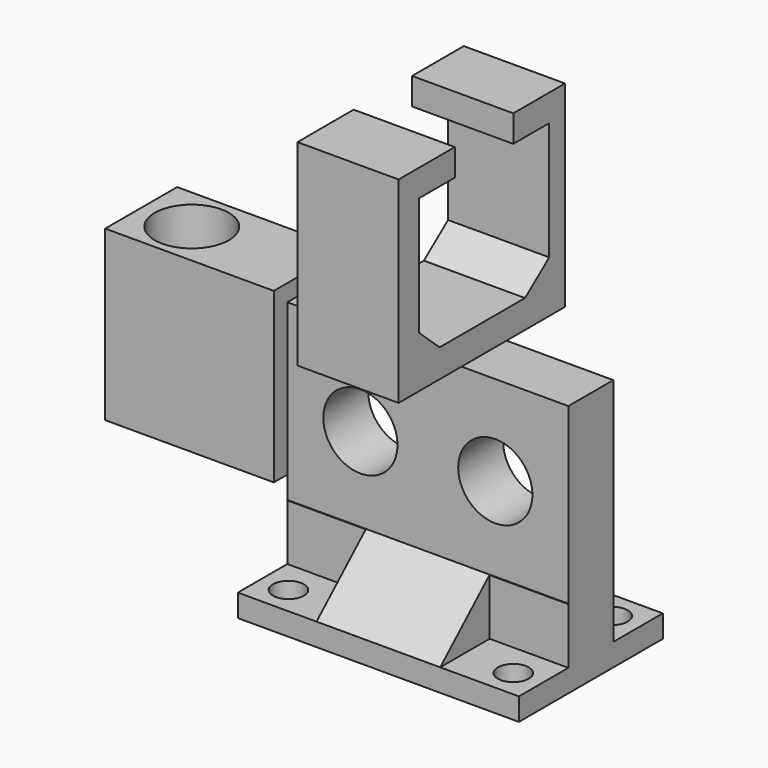
from build123d import *

# Parameters (mm, degrees)
PAD005_DEPTH  = 50
PAD006_DEPTH  = 50
SKETCH013_R   = 6.6
PAD011_DEPTH  = 30
SKETCH014_R   = 6.6
PAD012_DEPTH  = 35
SKETCH009_W   = 11
SKETCH009_H   = 10
PAD007_DEPTH  = 14
SKETCH010_W   = 11
SKETCH010_H   = 10
PAD008_DEPTH  = 14
SKETCH011_W   = 11
SKETCH011_H   = 10
PAD009_DEPTH  = 14
SKETCH012_W   = 11
SKETCH012_H   = 10
PAD010_DEPTH  = 14
SKETCH001_W   = 32
SKETCH001_H   = 4
PAD001_DEPTH  = 50
SKETCH004_R   = 2.75
HOLE_DEPTH    = 4.001
PAD003_DEPTH  = 20
SKETCH002_W   = 37
SKETCH002_H   = 18
PAD002_DEPTH  = 35
SKETCH005_W   = 16
SKETCH005_H   = 30
PAD004_DEPTH  = 30
SKETCH006_R   = 6.6
HOLE001_DEPTH = 30.001
SKETCH_W      = 32
SKETCH_H      = 41
PAD_DEPTH     = 50


with BuildPart() as body005:
    # Sketch007 (on Face1 of CopyPad004) → Pad005 (new body)
    with BuildSketch(Plane(origin=(0, 0, 0), x_dir=(0, -1, 0), z_dir=(-1, 0, 0))):
        Polygon((0, 3), (-11, 13.048009), (-11, 44), (0, 44), align=None)
    extrude(amount=-PAD005_DEPTH)


with BuildPart() as body006:
    # Sketch008 (on Face1 of CopyPad005) → Pad006 (new body)
    with BuildSketch(Plane(origin=(0, 0, 0), x_dir=(0, -1, 0), z_dir=(-1, 0, 0))):
        Polygon((-32, 44), (-21, 44), (-21, 12.966247), (-32, 3), align=None)
    extrude(amount=-PAD006_DEPTH)


with BuildPart() as body011:
    # Sketch013 (on Face1 of CopyPad006001) → Pad011 (new body)
    with BuildSketch(Plane(origin=(0, 32, 0), x_dir=(-1, 0, 0), z_dir=(0, 1, 0))):
        with Locations((-37, 28)):
            Circle(SKETCH013_R)
    extrude(amount=-PAD011_DEPTH)


with BuildPart() as body012:
    # Sketch014 (on Face1 of CopyPad006002) → Pad012 (new body)
    with BuildSketch(Plane(origin=(0, 32, 0), x_dir=(-1, 0, 0), z_dir=(0, 1, 0))):
        with Locations((-13, 28)):
            Circle(SKETCH014_R)
    extrude(amount=-PAD012_DEPTH)


with BuildPart() as body007:
    # Sketch009 (on Face1 of CopyPad006) → Pad007 (new body)
    with BuildSketch(Plane.YZ.offset(50)):
        with Locations((26.5, 8)):
            Rectangle(SKETCH009_W, SKETCH009_H)
    extrude(amount=-PAD007_DEPTH)


with BuildPart() as body008:
    # Sketch010 (on Face1 of CopyPad005001) → Pad008 (new body)
    with BuildSketch(Plane.YZ.offset(50)):
        with Locations((5.5, 8)):
            Rectangle(SKETCH010_W, SKETCH010_H)
    extrude(amount=-PAD008_DEPTH)


with BuildPart() as body009:
    # Sketch011 (on Face1 of CopyPad005002) → Pad009 (new body)
    with BuildSketch(Plane(origin=(0, 0, 0), x_dir=(0, -1, 0), z_dir=(-1, 0, 0))):
        with Locations((-5.5, 8)):
            Rectangle(SKETCH011_W, SKETCH011_H)
    extrude(amount=-PAD009_DEPTH)


with BuildPart() as body010:
    # Sketch012 (on Face1 of CopyPad005003) → Pad010 (new body)
    with BuildSketch(Plane(origin=(0, 0, 0), x_dir=(0, -1, 0), z_dir=(-1, 0, 0))):
        with Locations((-26.5, 8)):
            Rectangle(SKETCH012_W, SKETCH012_H)
    extrude(amount=-PAD010_DEPTH)


with BuildPart() as body001:
    # Sketch001 (on Face1 of CopyPad) → Pad001 (new body)
    with BuildSketch(Plane.YZ.offset(50)):
        with Locations((16, 1)):
            Rectangle(SKETCH001_W, SKETCH001_H)
    extrude(amount=-PAD001_DEPTH)

    # Sketch004 (on Face3 of Pad001) → Hole (cut, through all)
    with BuildSketch(Plane(origin=(50, 0, -1), x_dir=(1, 0, 0), z_dir=(0, 0, -1))):
        with Locations((-45, -5)):
            Circle(SKETCH004_R)
        with Locations((-5, -5)):
            Circle(SKETCH004_R)
        with Locations((-5, -27)):
            Circle(SKETCH004_R)
        with Locations((-45, -27)):
            Circle(SKETCH004_R)
    extrude(amount=-HOLE_DEPTH, mode=Mode.SUBTRACT)


with BuildPart() as body003:
    # Sketch003 (on Face1 of CopyPad002) → Pad003 (new body)
    with BuildSketch(Plane.YZ.offset(31)):
        Polygon((9.5, 79.211134), (22.5, 79.211134), (22.5, 74.211134), (30.5, 74.211134), (30.5, 53.183285), (25.112084, 49.00605), (6.112084, 49.00605), (1.5, 53.183285), (1.5, 74.211134), (9.5, 74.211134), align=None)
    extrude(amount=-PAD003_DEPTH)


with BuildPart() as body002:
    # Sketch002 (on Face1 of CopyPad001) → Pad002 (new body)
    with BuildSketch(Plane(origin=(0, 0, 44), x_dir=(0, -1, 0), z_dir=(0, 0, 1))):
        with Locations((-15.5, 22)):
            Rectangle(SKETCH002_W, SKETCH002_H)
    extrude(amount=PAD002_DEPTH)

    # Boolean: cut Body003
    add(body003.part, mode=Mode.SUBTRACT)


with BuildPart() as body004:
    # Sketch005 (on Face1 of CopyPad003) → Pad004 (new body)
    with BuildSketch(Plane(origin=(0, 0, 0), x_dir=(0, -1, 0), z_dir=(-1, 0, 0))):
        with Locations((-16, 32)):
            Rectangle(SKETCH005_W, SKETCH005_H)
    extrude(amount=PAD004_DEPTH)

    # Sketch006 (on Face3 of Pad004) → Hole001 (cut, through all)
    with BuildSketch(Plane(origin=(0, 0, 17), x_dir=(1, 0, 0), z_dir=(0, 0, -1))):
        with Locations((-21, -16)):
            Circle(SKETCH006_R)
    extrude(amount=-HOLE001_DEPTH, mode=Mode.SUBTRACT)


with BuildPart() as body:
    # Sketch → Pad (new body)
    with BuildSketch(Plane.YZ):
        with Locations((16, 23.5)):
            Rectangle(SKETCH_W, SKETCH_H)
    extrude(amount=PAD_DEPTH)

    # Boolean001: cut Body005
    add(body005.part, mode=Mode.SUBTRACT)

    # Boolean002: cut Body006
    add(body006.part, mode=Mode.SUBTRACT)

    # Boolean003: cut Body011
    add(body011.part, mode=Mode.SUBTRACT)

    # Boolean004: cut Body012
    add(body012.part, mode=Mode.SUBTRACT)

    # Boolean005: cut Body007
    add(body007.part, mode=Mode.SUBTRACT)

    # Boolean006: cut Body008
    add(body008.part, mode=Mode.SUBTRACT)

    # Boolean007: cut Body009
    add(body009.part, mode=Mode.SUBTRACT)

    # Boolean008: cut Body010
    add(body010.part, mode=Mode.SUBTRACT)

    # Boolean009: union Body001
    add(body001.part)

    # Boolean010: union Body002
    add(body002.part)

    # Boolean011: union Body004
    add(body004.part)


solid = body.part
